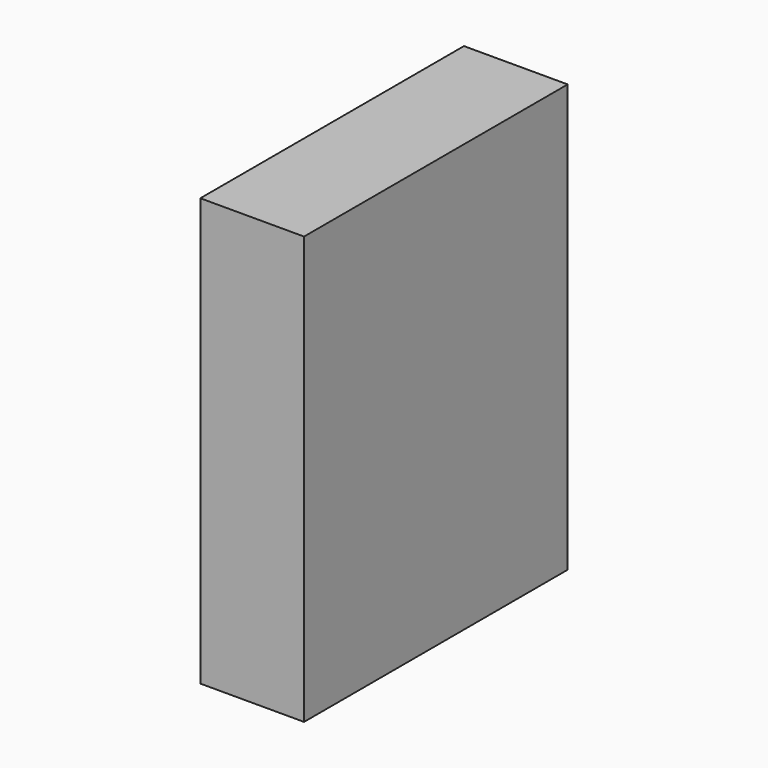
from build123d import *

# Parameters (mm, degrees)
F0_W     = 196.506872
F0_H     = 254.806548
F1_DEPTH = 61.855255
F3_DEPTH = 100.416752


with BuildPart() as f1:
    # F0 (on Right) → F1 (new body)
    with BuildSketch(Plane.YZ):
        Rectangle(F0_W, F0_H)
    extrude(amount=F1_DEPTH)

    # F2 (on face) → F3 (join)
    with BuildSketch(Plane.XY.offset(127.403274)):
        Polygon((61.855255, -30.507594), (0, -30.507594), (31.656865, -55.654023), align=None)
    extrude(amount=-F3_DEPTH)


solid = f1.part
